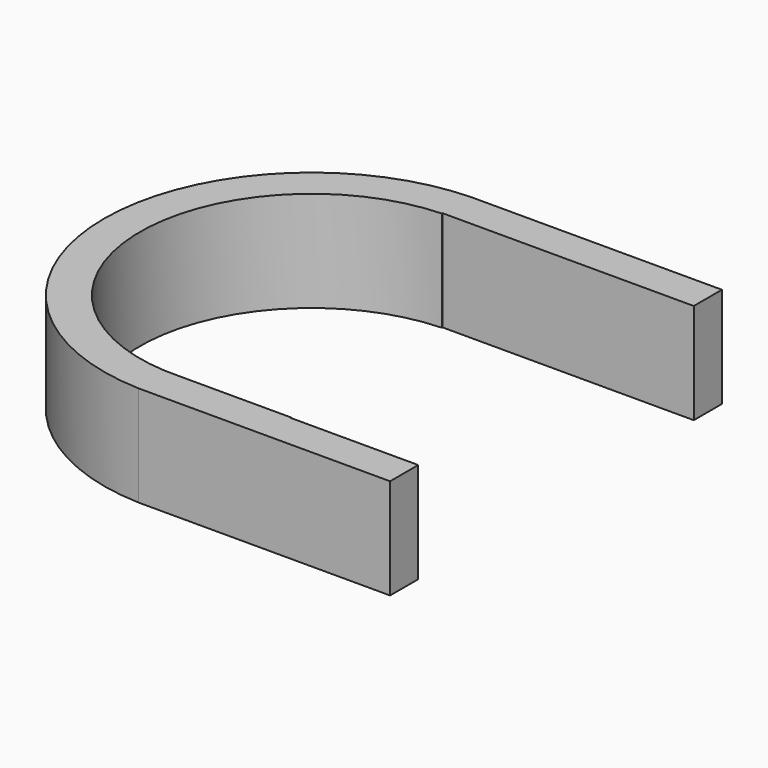
from build123d import *

# Parameters (mm, degrees)
F0_R     = 68.2467062122
F1_DEPTH = 40
F3_DEPTH = 43.6


with BuildPart() as f1:
    # F0 (on Top) → F1 (new body)
    with BuildSketch(Plane.XY):
        with BuildLine():
            Line((5.5528854289, 82.5), (0, 82.5))
            Line((0, 82.5), (0, 68.5))
            Line((0, 68.5), (48.8384512914, 68.5))
            ThreePointArc((48.8384512914, 68.5), (28.1791705431, 78.5408177511), (5.5528854289, 82.5))
        make_face()
        with BuildLine():
            Line((100, 82.5), (5.5528854289, 82.5))
            ThreePointArc((5.5528854289, 82.5), (28.1791705431, 78.5408177511), (48.8384512914, 68.5))
            Line((48.8384512914, 68.5), (100, 68.5))
            Line((100, 68.5), (100, 82.5))
        make_face()
        with BuildLine():
            ThreePointArc((48.8384512914, -68.5), (28.1791705431, -78.5408177511), (5.5528854289, -82.5))
            Line((5.5528854289, -82.5), (100, -82.5))
            Line((100, -82.5), (100, -68.5))
            Line((100, -68.5), (48.8384512914, -68.5))
        make_face()
        with BuildLine():
            Line((0, -68.5), (0, -82.5))
            Line((0, -82.5), (5.5528854289, -82.5))
            ThreePointArc((5.5528854289, -82.5), (28.1791705431, -78.5408177511), (48.8384512914, -68.5))
            Line((48.8384512914, -68.5), (0, -68.5))
        make_face()
        with BuildLine():
            Line((0, 68.5), (0, 82.5))
            ThreePointArc((0, 82.5), (-79.7702630596, 0), (0, -82.5))
            Line((0, -82.5), (0, -68.5))
            Line((0, -68.5), (48.8384512914, -68.5))
            ThreePointArc((48.8384512914, -68.5), (75.6332395954, -38.8052288022), (85.3231484885, 0))
            ThreePointArc((85.3231484885, 0), (75.6332395954, 38.8052288022), (48.8384512914, 68.5))
            Line((48.8384512914, 68.5), (0, 68.5))
        make_face()
        with Locations((2.7764427144, 0)):
            Circle(F0_R, mode=Mode.SUBTRACT)
    extrude(amount=F1_DEPTH)

    # F2 (on face) → F3 (cut)
    with BuildSketch(Plane.XY.offset(40)):
        with BuildLine():
            Line((128.2525956631, -68.1902065891), (128.2525956631, 68.5))
            Line((128.2525956631, 68.5), (100, 68.5))
            Line((100, 68.5), (48.8384512914, 68.5))
            ThreePointArc((48.8384512914, 68.5), (85.3226863598, 0.2762140197), (49.2958403833, -68.1902065891))
            Line((49.2958403833, -68.1902065891), (128.2525956631, -68.1902065891))
        make_face()
        with BuildLine():
            ThreePointArc((0, -68.1902065891), (2.7764427144, -68.2467062122), (5.5528854289, -68.1902065891))
            Line((5.5528854289, -68.1902065891), (0, -68.1902065891))
        make_face()
        with BuildLine():
            ThreePointArc((49.2958403833, -68.1902065891), (85.3226863598, 0.2762140197), (48.8384512914, 68.5))
            Line((48.8384512914, 68.5), (0, 68.5))
            Line((0, 68.5), (0, 68.1902065891))
            ThreePointArc((0, 68.1902065891), (50.0423386573, 49.2295438688), (71.0231489266, 0))
            ThreePointArc((71.0231489266, 0), (52.0059865833, -47.2658959429), (5.5528854289, -68.1902065891))
            Line((5.5528854289, -68.1902065891), (49.2958403833, -68.1902065891))
        make_face()
    extrude(amount=-F3_DEPTH, mode=Mode.SUBTRACT)


solid = f1.part
